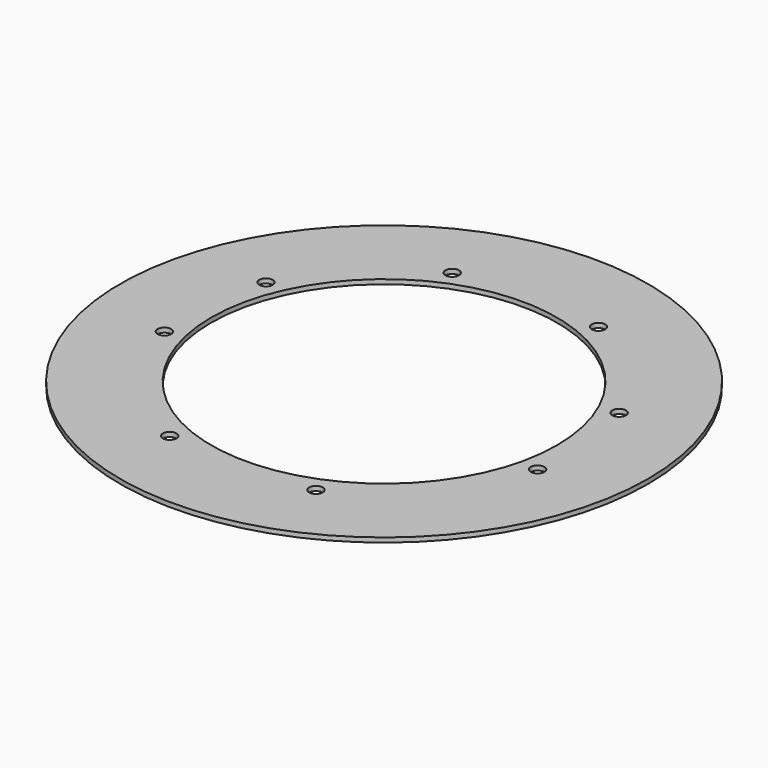
from build123d import *

# Parameters (mm, degrees)
CYLINDER757_R               = 1.5
CYLINDER757_DEPTH           = 100
CYLINDER757_PLACEMENT_ANGLE = 100
CYLINDER755_R               = 1.5
CYLINDER755_DEPTH           = 100
CYLINDER755_PLACEMENT_ANGLE = 135
CYLINDER759_R               = 1.5
CYLINDER759_DEPTH           = 100
CYLINDER761_R               = 1.5
CYLINDER761_DEPTH           = 100
CYLINDER761_PLACEMENT_ANGLE = 225
CYLINDER754_R               = 1.5
CYLINDER754_DEPTH           = 100
CYLINDER758_R               = 1.5
CYLINDER758_DEPTH           = 100
CYLINDER758_PLACEMENT_ANGLE = 55
CYLINDER756_R               = 1.5
CYLINDER756_DEPTH           = 100
CYLINDER760_R               = 1.5
CYLINDER760_DEPTH           = 100
CYLINDER760_PLACEMENT_ANGLE = 45
TUBE079_R                   = 58
TUBE079_R_2                 = 38
TUBE079_DEPTH               = 1


with BuildPart() as obj1:
    # Cylinder757 → Cylinder757 (new body)
    with BuildSketch(Plane.XY):
        Circle(CYLINDER757_R)
    extrude(amount=CYLINDER757_DEPTH)


with BuildPart() as obj1_1:
    # Cylinder757 placement: moved
    add(obj1.part.moved(Location((41.004432, -9.090464, 0))).rotate(Axis((41.004432, -9.090464, 0), (0, 0, 1)), CYLINDER757_PLACEMENT_ANGLE))


with BuildPart() as obj2:
    # Cylinder755 → Cylinder755 (new body)
    with BuildSketch(Plane.XY):
        Circle(CYLINDER755_R)
    extrude(amount=CYLINDER755_DEPTH)


with BuildPart() as obj2_1:
    # Cylinder755 placement: moved
    add(obj2.part.moved(Location((38.80294, 16.072704, 0))).rotate(Axis((38.80294, 16.072704, 0), (0, 0, 1)), CYLINDER755_PLACEMENT_ANGLE))


with BuildPart() as obj3:
    # Cylinder759 → Cylinder759 (new body)
    with BuildSketch(Plane(origin=(16.072704, 38.80294, 0), x_dir=(-1, 0, 0), z_dir=(0, 0, 1))):
        Circle(CYLINDER759_R)
    extrude(amount=CYLINDER759_DEPTH)


with BuildPart() as obj4:
    # Cylinder761 → Cylinder761 (new body)
    with BuildSketch(Plane.XY):
        Circle(CYLINDER761_R)
    extrude(amount=CYLINDER761_DEPTH)


with BuildPart() as obj4_1:
    # Cylinder761 placement: moved
    add(obj4.part.moved(Location((-16.072704, 38.80294, 0))).rotate(Axis((-16.072704, 38.80294, 0), (0, 0, 1)), CYLINDER761_PLACEMENT_ANGLE))


with BuildPart() as obj5:
    # Cylinder754 → Cylinder754 (new body)
    with BuildSketch(Plane(origin=(-38.80294, 16.072704, 0), x_dir=(0, -1, 0), z_dir=(0, 0, 1))):
        Circle(CYLINDER754_R)
    extrude(amount=CYLINDER754_DEPTH)


with BuildPart() as obj6:
    # Cylinder758 → Cylinder758 (new body)
    with BuildSketch(Plane.XY):
        Circle(CYLINDER758_R)
    extrude(amount=CYLINDER758_DEPTH)


with BuildPart() as obj6_1:
    # Cylinder758 placement: moved
    add(obj6.part.moved(Location((-41.004432, -9.090464, 0))).rotate(Axis((-41.004432, -9.090464, 0), (0, 0, -1)), CYLINDER758_PLACEMENT_ANGLE))


with BuildPart() as obj7:
    # Cylinder756 → Cylinder756 (new body)
    with BuildSketch(Plane(origin=(-16.072704, -38.80294, 0), x_dir=(1, 0, 0), z_dir=(0, 0, 1))):
        Circle(CYLINDER756_R)
    extrude(amount=CYLINDER756_DEPTH)


with BuildPart() as compound709:
    # Cylinder760 → Cylinder760 (new body)
    with BuildSketch(Plane.XY):
        Circle(CYLINDER760_R)
    extrude(amount=CYLINDER760_DEPTH)


with BuildPart() as compound709_1:
    # Cylinder760 placement: moved
    add(compound709.part.moved(Location((16.072704, -38.80294, 0))).rotate(Axis((16.072704, -38.80294, 0), (0, 0, 1)), CYLINDER760_PLACEMENT_ANGLE))

    # Compound709: union obj1, obj2, obj3, obj4, obj5, obj6, obj7
    add(obj1_1.part)
    add(obj2_1.part)
    add(obj3.part)
    add(obj4_1.part)
    add(obj5.part)
    add(obj6_1.part)
    add(obj7.part)


with BuildPart() as obj8:
    # Tube079 → Tube079 (new body)
    with BuildSketch(Plane.XY.offset(42)):
        Circle(TUBE079_R)
        Circle(TUBE079_R_2, mode=Mode.SUBTRACT)
    extrude(amount=TUBE079_DEPTH)

    # Cut325: cut Compound709
    add(compound709_1.part, mode=Mode.SUBTRACT)


solid = obj8.part
